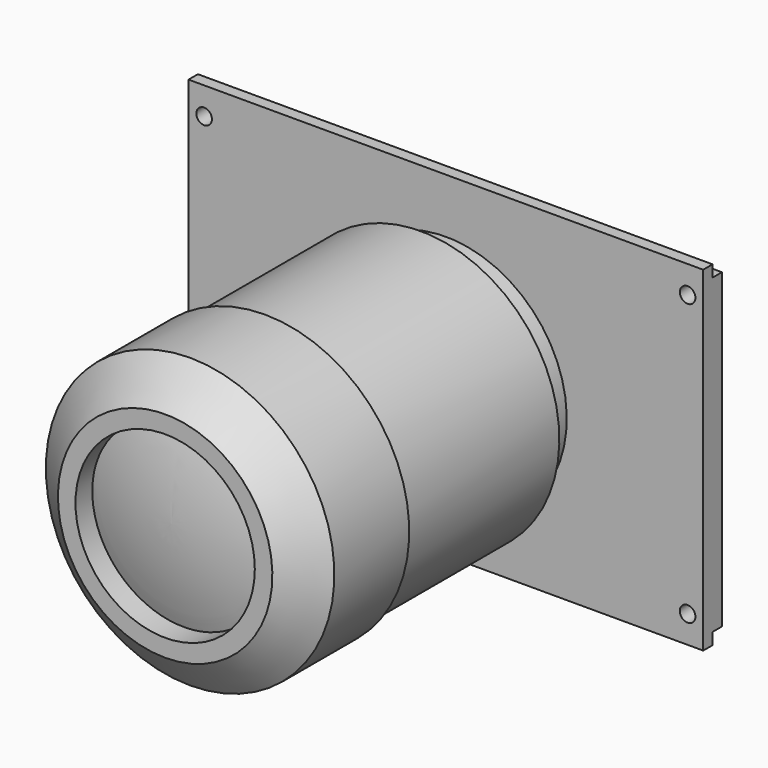
from build123d import *

# Parameters (mm, degrees)
F0_W     = 104.775
F0_H     = 68.2625
F1_DEPTH = 4.7625
F2_W     = 2.38125
F2_H     = 2.38125
F3_DEPTH = 104.775
F4_R     = 1.5875
F5_DEPTH = 4.7625
F8_R     = 18.25625
F9_DEPTH = 76.2


with BuildPart() as f1:
    # F0 (on Front) → F1 (new body)
    with BuildSketch(Plane.XZ):
        Rectangle(F0_W, F0_H)
    extrude(amount=F1_DEPTH)

    # F2 (on face) → F3 (cut, through all)
    with BuildSketch(Plane.YZ.offset(52.3875)):
        with Locations((-1.190625, 32.940625)):
            Rectangle(F2_W, F2_H)
        with Locations((-1.190625, -32.940625)):
            Rectangle(F2_W, F2_H)
    extrude(amount=-F3_DEPTH, mode=Mode.SUBTRACT)

    # F4 (on face) → F5 (cut, through all)
    with BuildSketch(Plane(origin=(0, 0, 0), x_dir=(-1, 0, 0), z_dir=(0, 1, 0))):
        with Locations((-49.2125, 28.575)):
            Circle(F4_R)
        with Locations((49.2125, 28.575)):
            Circle(F4_R)
        with Locations((-49.2125, -28.575)):
            Circle(F4_R)
        with Locations((49.2125, -28.575)):
            Circle(F4_R)
    extrude(amount=-F5_DEPTH, mode=Mode.SUBTRACT)

    # F6 (on Right) → F7 (revolve)
    with BuildSketch(Plane.YZ):
        Polygon((-11.1125, -26.19375), (-4.7625, -26.19375), (-4.7625, -1.5875), (-76.2, -1.5875), (-76.2, -23.415625), (-69.85, -30.95625), (-50.8, -30.95625), (-50.8, -29.765625), (-11.1125, -29.765625), align=None)
    revolve(axis=Axis((0, -46.005279, -1.5875), (0, -1, 0)))

    # F8 (on face) → F9 (cut, through all)
    with BuildSketch(Plane.XZ.offset(76.2)):
        with Locations((0, -1.5875)):
            Circle(F8_R)
    extrude(amount=-F9_DEPTH, mode=Mode.SUBTRACT)

    # F10 (on Right) → F11 (revolve)
    with BuildSketch(Plane.YZ):
        with BuildLine():
            Line((-74.6125, 0), (-61.11875, 0))
            Line((-61.11875, 0), (-61.11875, 19.84375))
            Line((-61.11875, 19.84375), (-71.4375, 19.84375))
            ThreePointArc((-71.4375, 19.84375), (-73.813734, 10.048072), (-74.6125, 0))
        make_face()
    revolve(axis=Axis((0, -67.865625, 0), (0, -1, 0)))


solid = f1.part
